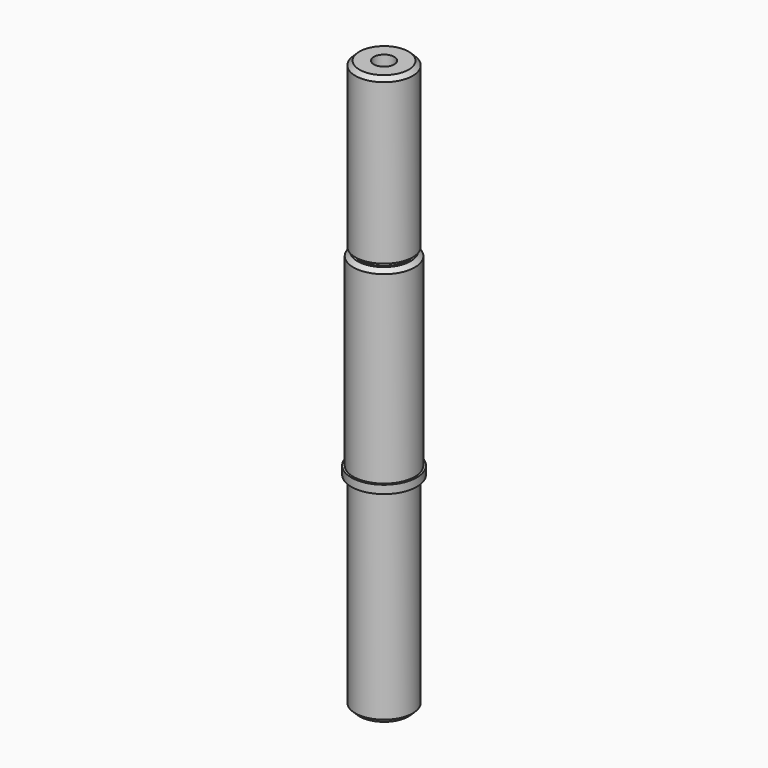
from build123d import *

# Parameters (mm, degrees)
F0_R      = 7
F1_DEPTH  = 50
F2_R      = 8
F3_DEPTH  = 2
F4_R      = 7.5
F5_DEPTH  = 46
F6_R      = 6
F7_DEPTH  = 1
F8_R      = 7
F9_DEPTH  = 40
F11_D     = 5
F11_DEPTH = 20
F11_TIP   = 1.5021515476
F13_D     = 5
F13_DEPTH = 20
F13_TIP   = 1.5021515476
F14_SIZE  = 1


with BuildPart() as f1:
    # F0 (on Top) → F1 (new body)
    with BuildSketch(Plane.XY):
        Circle(F0_R)
    extrude(amount=F1_DEPTH)

    # F2 (on face) → F3 (join)
    with BuildSketch(Plane.XY.offset(50)):
        Circle(F2_R)
    extrude(amount=F3_DEPTH)

    # F4 (on face) → F5 (join)
    with BuildSketch(Plane.XY.offset(52)):
        Circle(F4_R)
    extrude(amount=F5_DEPTH)

    # F6 (on face) → F7 (join)
    with BuildSketch(Plane.XY.offset(98)):
        Circle(F6_R)
    extrude(amount=F7_DEPTH)

    # F8 (on face) → F9 (join)
    with BuildSketch(Plane.XY.offset(99)):
        Circle(F8_R)
    extrude(amount=F9_DEPTH)

    # F11
    with Locations(Plane.XY.offset(139)):
        with Locations((0, 0)):
            Hole(F11_D / 2, depth=F11_DEPTH)
            with Locations((0, 0, -(F11_DEPTH + F11_TIP / 2))):  # 118° drill point
                Cone(0, F11_D / 2, F11_TIP, mode=Mode.SUBTRACT)

    # F13
    with Locations(Plane(origin=(0, 0, 0), x_dir=(1, 0, 0), z_dir=(0, 0, -1))):
        with Locations((0, 0)):
            Hole(F13_D / 2, depth=F13_DEPTH)
            with Locations((0, 0, -(F13_DEPTH + F13_TIP / 2))):  # 118° drill point
                Cone(0, F13_D / 2, F13_TIP, mode=Mode.SUBTRACT)

    # F14
    f14_edges = [f1.edges().sort_by_distance(p)[0] for p in [
        (-7, 0, 0),
        (-7, 0, 139),
        (-7.5, 0, 98),
    ]]
    chamfer(f14_edges, length=F14_SIZE)


solid = f1.part
